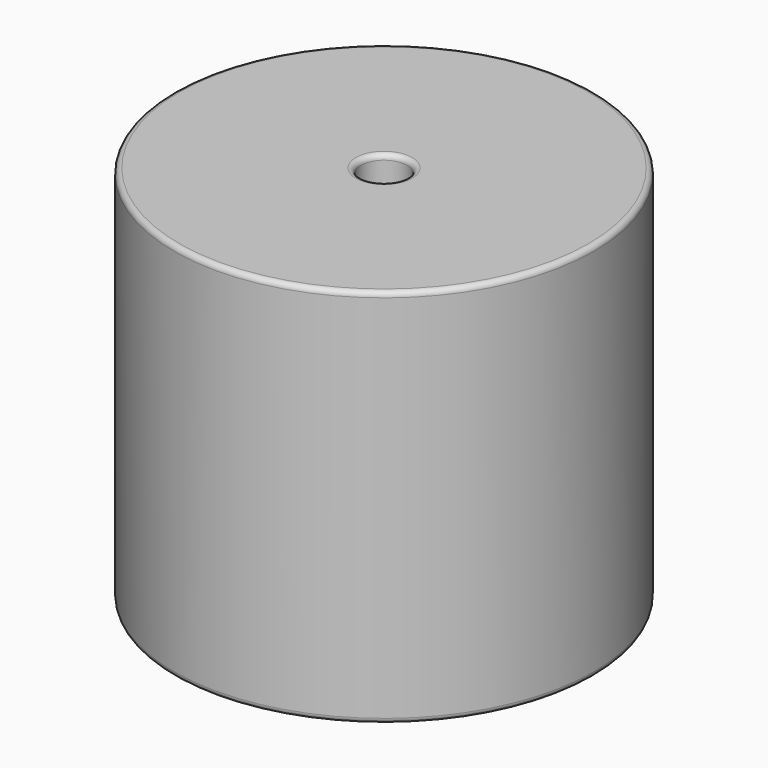
from build123d import *

# Parameters (mm, degrees)
SKETCH001_R       = 0.5
PAD001_DEPTH      = 18.415
PAD001_DEPTH_BACK = 3.5
SKETCH_R          = 20.32
SKETCH_R_2        = 2.225
PAD_DEPTH         = 36.83
FILLET_R          = 0.5


with BuildPart() as pad001:
    # Sketch001 → Pad001 (new body, two sides)
    with BuildSketch(Plane.XY.offset(0.5)) as pad001_sk:
        Circle(SKETCH001_R)
        with Locations((26.16, 0)):
            Circle(SKETCH001_R)
    extrude(amount=PAD001_DEPTH)
    extrude(pad001_sk.sketch, amount=-PAD001_DEPTH_BACK)


with BuildPart() as fillet_body:
    # Sketch → Pad (new body)
    with BuildSketch(Plane.XY.offset(0.1)):
        with Locations((13.08, 0)):
            Circle(SKETCH_R)
        with Locations((13.08, 0)):
            Circle(SKETCH_R_2, mode=Mode.SUBTRACT)
    extrude(amount=PAD_DEPTH)

    # Fillet
    fillet_edges = [fillet_body.edges().sort_by_distance(p)[0] for p in [
        (10.855, 0, 36.93),
        (-7.24, 0, 36.93),
        (-7.24, 0, 0.1),
    ]]
    fillet(fillet_edges, radius=FILLET_R)


solid = Compound([pad001.part, fillet_body.part])
